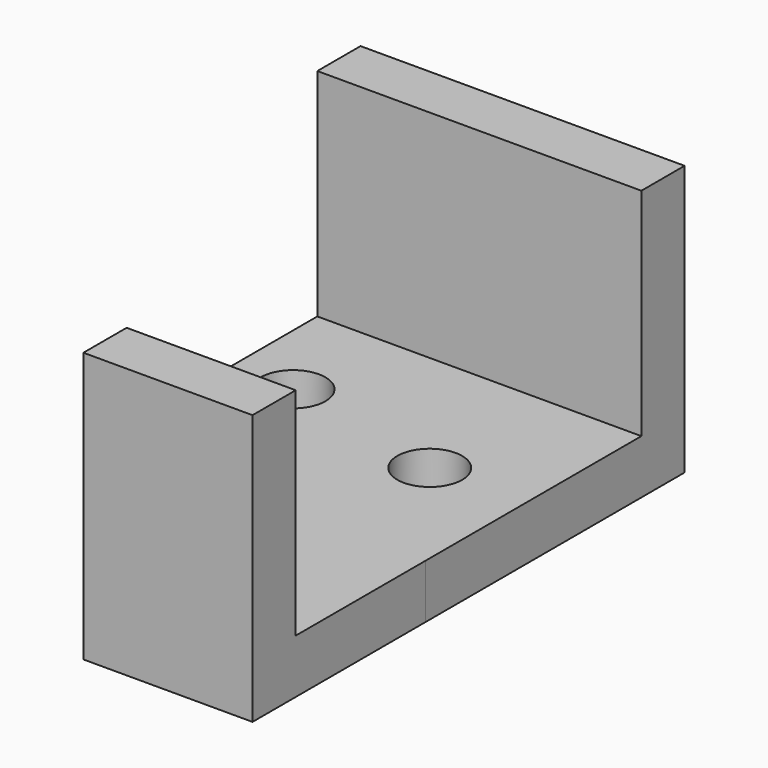
from build123d import *

# Parameters (mm, degrees)
F0_W     = 152.4
F0_H     = 25.4
F1_DEPTH = 127
F0_R     = 15.24
F0_W_2   = 79.522247
F0_H_2   = 76.2
F2_DEPTH = 25.4
F3_DEPTH = 127


with BuildPart() as f1:
    # F0 (on Top) → F1 (new body)
    with BuildSketch(Plane.XY):
        with Locations((3.322247, 63.5)):
            Rectangle(F0_W, F0_H)
    extrude(amount=F1_DEPTH)

    # F0 (on Top) → F2 (join)
    with BuildSketch(Plane.XY):
        Polygon((79.522247, 50.8), (-72.877753, 50.8), (-72.877753, -76.2), (0, -76.2), (79.522247, -76.2), align=None)
        with Locations((-43.653723, 0)):
            Circle(F0_R, mode=Mode.SUBTRACT)
        with Locations((34.601994, -17.455092)):
            Circle(F0_R, mode=Mode.SUBTRACT)
        with Locations((39.761123, -114.3)):
            Rectangle(F0_W_2, F0_H_2)
    extrude(amount=F2_DEPTH)

    # F0 (on Top) → F3 (join)
    with BuildSketch(Plane.XY):
        with Locations((39.761123, -165.1)):
            Rectangle(F0_W_2, F0_H)
    extrude(amount=F3_DEPTH)


solid = f1.part
